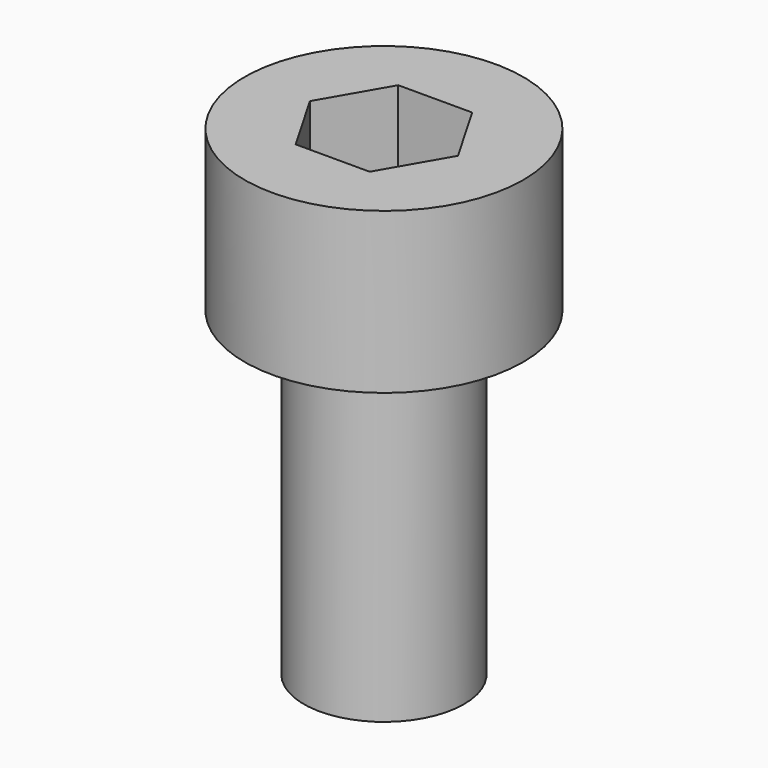
from build123d import *

# Parameters (mm, degrees)
F0_R     = 2.5
F1_DEPTH = 10
F0_R_2   = 4.35
F2_DEPTH = 5


with BuildPart() as f1:
    # F0 (on Top) → F1 (new body)
    with BuildSketch(Plane.XY):
        Circle(F0_R)
        Polygon((2.309401, 0), (1.154701, -2), (-1.154701, -2), (-2.309401, 0), (-1.154701, 2), (1.154701, 2), align=None, mode=Mode.SUBTRACT)
        Polygon((-1.154701, -2), (1.154701, -2), (2.309401, 0), (1.154701, 2), (-1.154701, 2), (-2.309401, 0), align=None)
    extrude(amount=-F1_DEPTH)

    # F0 (on Top) → F2 (join)
    with BuildSketch(Plane.XY):
        Circle(F0_R_2)
        Circle(F0_R, mode=Mode.SUBTRACT)
        Circle(F0_R)
        Polygon((2.309401, 0), (1.154701, -2), (-1.154701, -2), (-2.309401, 0), (-1.154701, 2), (1.154701, 2), align=None, mode=Mode.SUBTRACT)
    extrude(amount=F2_DEPTH)


solid = f1.part
